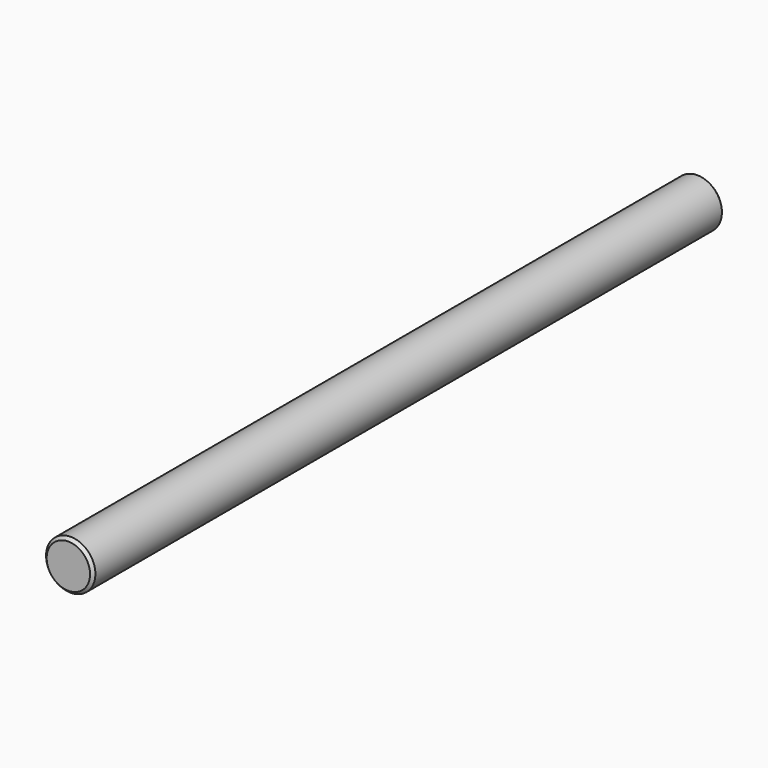
from build123d import *

# Parameters (mm, degrees)
F0_W    = 203.2
F0_H    = 6.35
F2_SIZE = 0.762


with BuildPart() as f1:
    # F0 (on Right) → F1 (revolve)
    with BuildSketch(Plane.YZ):
        with Locations((-101.6, 3.175)):
            Rectangle(F0_W, F0_H)
    revolve(axis=Axis((0, -101.6, 0), (0, -1, 0)))

    # F2
    f2_edges = [f1.edges().sort_by_distance(p)[0] for p in [
        (0, -203.2, -6.35),
        (0, 0, -6.35),
    ]]
    chamfer(f2_edges, length=F2_SIZE)


solid = f1.part
